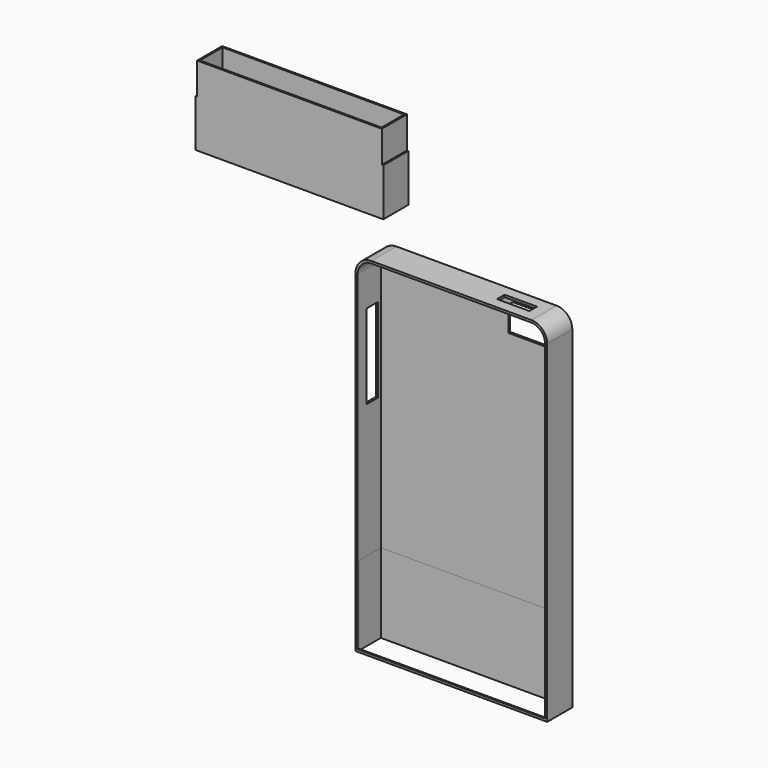
from build123d import *

# Parameters (mm, degrees)
F2_DEPTH  = 9.9
F3_T      = -0.7
F4_T      = -0.5
F5_DEPTH  = 25
F6_W      = 4.588274518
F6_H      = 26.6
F7_DEPTH  = 25
F8_W      = 59.5
F8_H      = 8.9
F9_DEPTH  = 25
F11_DEPTH = 25
F12_W     = 58.3
F12_H     = 10
F13_DEPTH = 9.9
F14_T     = -0.5
F16_DEPTH = 25


with BuildPart() as f2:
    # F0 (on Front) → F2 (new body)
    with BuildSketch(Plane.XZ):
        with BuildLine():
            Line((55.5, 0), (5, 0))
            ThreePointArc((5, 0), (1.4644660941, -1.4644660941), (0, -5))
            Line((0, -5), (0, -110))
            Line((0, -110), (60.5, -110))
            Line((60.5, -110), (60.5, -5))
            ThreePointArc((60.5, -5), (59.0355339059, -1.4644660941), (55.5, 0))
        make_face()
    extrude(amount=F2_DEPTH)

    # F3
    f3_openings = [f2.faces().sort_by_distance(p)[0] for p in [
        (30.25, -9.9, -55.087018),
    ]]
    offset(amount=F3_T, openings=f3_openings)

    # F4
    f4_openings = [f2.faces().sort_by_distance(p)[0] for p in [
        (30.25, -4.95, -110),
    ]]
    offset(amount=F4_T, openings=f4_openings, kind=Kind.INTERSECTION)

    # F1 (on Front) → F5 (cut)
    with BuildSketch(Plane.XZ):
        with BuildLine():
            Line((58.4048116207, -10.0673367828), (58.4048116207, -3.0673367828))
            Line((58.4048116207, -3.0673367828), (42.9048116207, -3.0673367828))
            ThreePointArc((42.9048116207, -3.0673367828), (41.4905980583, -3.6531232204), (40.9048116207, -5.0673367828))
            Line((40.9048116207, -5.0673367828), (40.9048116207, -12.0673367828))
            Line((40.9048116207, -12.0673367828), (56.4048116207, -12.0673367828))
            ThreePointArc((56.4048116207, -12.0673367828), (57.8190251831, -11.4815503452), (58.4048116207, -10.0673367828))
        make_face()
    extrude(amount=F5_DEPTH, mode=Mode.SUBTRACT)

    # F6 (on face) → F7 (cut)
    with BuildSketch(Plane(origin=(0, 0, 0), x_dir=(0, -1, 0), z_dir=(-1, 0, 0))):
        with Locations((4.1498298524, -29.3223166287)):
            Rectangle(F6_W, F6_H)
    extrude(amount=-F7_DEPTH, mode=Mode.SUBTRACT)

    # F8 (on face) → F9 (cut)
    with BuildSketch(Plane(origin=(0, 0, -109.8), x_dir=(1, 0, 0), z_dir=(0, 0, -1))):
        with Locations((30.25, 4.95)):
            Rectangle(F8_W, F8_H)
    extrude(amount=-F9_DEPTH, mode=Mode.SUBTRACT)

    # F10 (on face) → F11 (cut)
    with BuildSketch(Plane.XY):
        Polygon((52.1, -6.45), (52.1, -4.95), (52.1, -3.45), (41.9, -3.45), (41.9, -6.45), align=None)
    extrude(amount=-F11_DEPTH, mode=Mode.SUBTRACT)


with BuildPart() as f13:
    # F12 (on Front) → F13 (new body)
    with BuildSketch(Plane.XZ):
        Polygon((-50.4111871123, 12.7860568464), (8.7888128877, 12.7860568464), (8.7888128877, 27.7860568464), (8.3388128877, 27.7860568464), (-49.9611871123, 27.7860568464), (-50.4111871123, 27.7860568464), align=None)
        with Locations((-20.8111871123, 32.7860568464)):
            Rectangle(F12_W, F12_H)
    extrude(amount=F13_DEPTH)

    # F14
    f14_openings = [f13.faces().sort_by_distance(p)[0] for p in [
        (-20.811187, -4.95, 37.786057),
    ]]
    offset(amount=F14_T, openings=f14_openings, kind=Kind.INTERSECTION)

    # F15 (on face) → F16 (cut)
    with BuildSketch(Plane(origin=(0, 0, 12.7860568464), x_dir=(1, 0, 0), z_dir=(0, 0, -1))):
        Polygon((-25.5111871123, 6.7), (-25.5111871123, 5), (-25.5111871123, 3.2), (-16.2111871123, 3.2), (-16.2111871123, 4.9), (-16.2111871123, 6.7), align=None)
    extrude(amount=-F16_DEPTH, mode=Mode.SUBTRACT)


solid = Compound([f2.part, f13.part])
